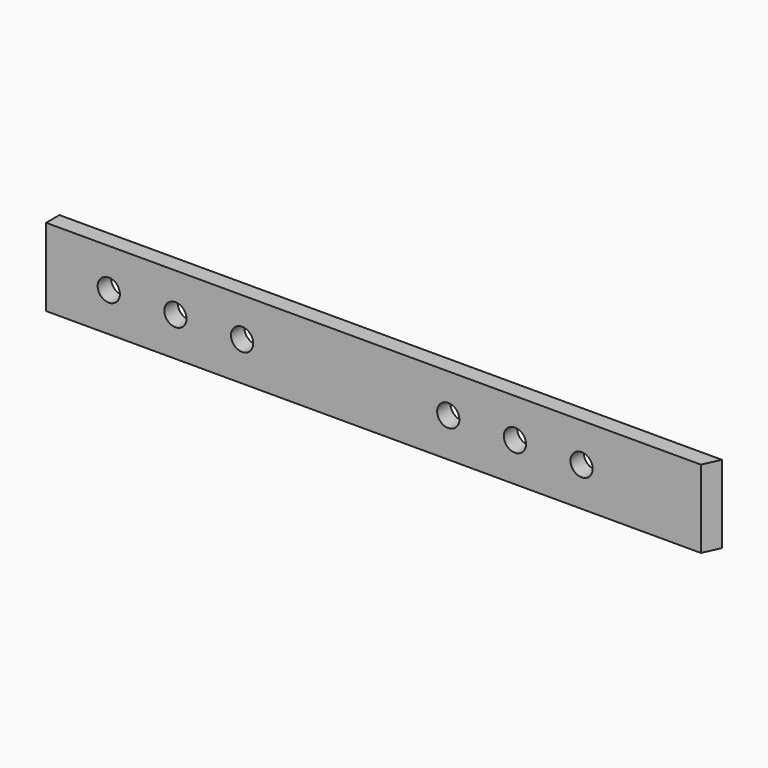
from build123d import *

# Parameters (mm, degrees)
F0_W     = 757.2375
F0_H     = 88.9
F0_R     = 12.7
F1_DEPTH = 19.05
F3_DEPTH = 88.901


with BuildPart() as f1:
    # F0 (on Front) → F1 (new body)
    with BuildSketch(Plane.XZ):
        with Locations((-4029.321405, -2240.701716)):
            Rectangle(F0_W, F0_H)
        with Locations((-4336.290896, -2240.701716)):
            Circle(F0_R, mode=Mode.SUBTRACT)
        with Locations((-4260.090896, -2240.701716)):
            Circle(F0_R, mode=Mode.SUBTRACT)
        with Locations((-4183.890896, -2240.701716)):
            Circle(F0_R, mode=Mode.SUBTRACT)
        with Locations((-3948.261522, -2240.701716)):
            Circle(F0_R, mode=Mode.SUBTRACT)
        with Locations((-3872.061522, -2240.701716)):
            Circle(F0_R, mode=Mode.SUBTRACT)
        with Locations((-3795.861522, -2240.701716)):
            Circle(F0_R, mode=Mode.SUBTRACT)
    extrude(amount=F1_DEPTH)

    # F2 (on face) → F3 (cut, through all)
    with BuildSketch(Plane(origin=(0, 0, -2285.151716), x_dir=(1, 0, 0), z_dir=(0, 0, -1))):
        Polygon((-3659.552107, 19.05), (-3650.702655, 0), (-3650.702655, 19.05), align=None)
    extrude(amount=-F3_DEPTH, mode=Mode.SUBTRACT)


solid = f1.part
